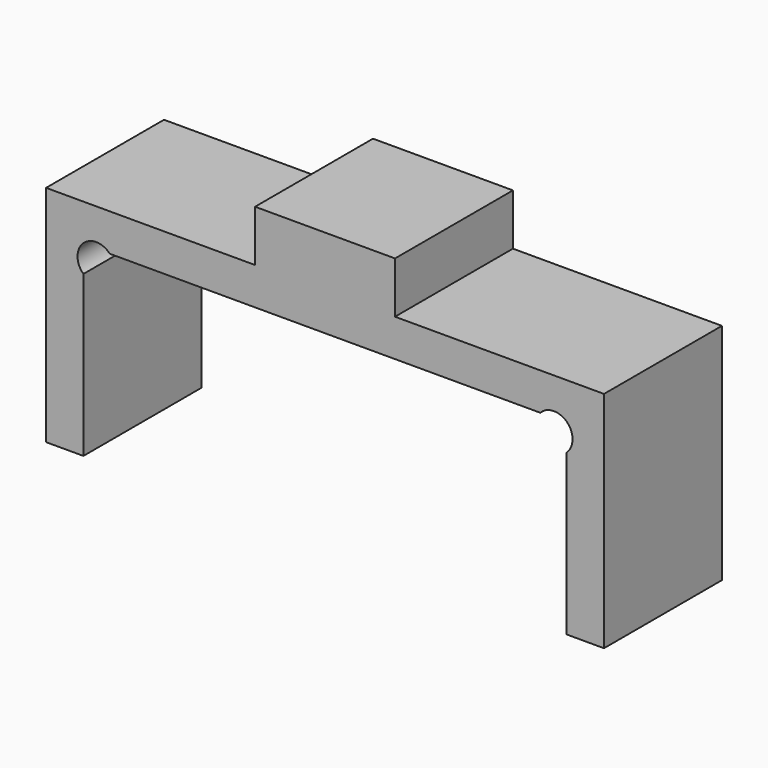
from build123d import *

# Parameters (mm, degrees)
F1_DEPTH = 15.8
F2_W     = 15
F2_H     = 15.8
F3_DEPTH = 5.5
F4_R     = 2
F5_DEPTH = 15.801


with BuildPart() as f1:
    # F0 (on Front) → F1 (new body)
    with BuildSketch(Plane.XZ):
        Polygon((-25.9, -20), (-25.9, 0), (25.9, 0), (25.9, -20), (29.9, -20), (29.9, 4), (-29.9, 4), (-29.9, -20), align=None)
    extrude(amount=F1_DEPTH)

    # F2 (on face) → F3 (join)
    with BuildSketch(Plane.XY.offset(4)):
        with Locations((0, -7.9)):
            Rectangle(F2_W, F2_H)
    extrude(amount=F3_DEPTH)

    # F4 (on face) → F5 (cut, through all)
    with BuildSketch(Plane.XZ.offset(15.8)):
        with Locations((-24.52996, -1.37004)):
            Circle(F4_R)
        with Locations((24.52996, -1.37004)):
            Circle(F4_R)
    extrude(amount=-F5_DEPTH, mode=Mode.SUBTRACT)


solid = f1.part
